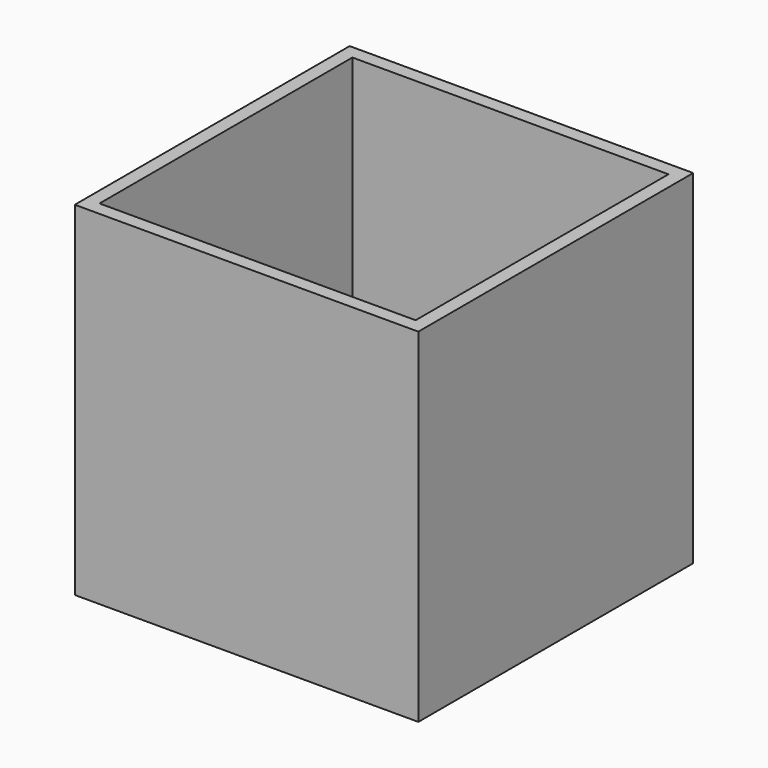
from build123d import *

# Parameters (mm, degrees)
F0_W     = 45.8
F0_H     = 45.8
F0_R     = 5.5
F0_R_2   = 3
F1_DEPTH = 2
F2_SIZE  = 5
F3_DEPTH = 50


with BuildPart() as f1:
    # F0 (on Top) → F1 (new body)
    with BuildSketch(Plane.XY):
        Rectangle(F0_W, F0_H)
        with Locations((-7, -11.5)):
            Circle(F0_R, mode=Mode.SUBTRACT)
        with Locations((11, -11.5)):
            Circle(F0_R_2, mode=Mode.SUBTRACT)
        with Locations((-7, 11.5)):
            Circle(F0_R, mode=Mode.SUBTRACT)
        with Locations((11, 11.5)):
            Circle(F0_R_2, mode=Mode.SUBTRACT)
    extrude(amount=F1_DEPTH)

    # F2
    f2_edges = [f1.edges().sort_by_distance(p)[0] for p in [
        (22.9, 22.9, 1),
        (22.9, -22.9, 1),
        (-22.9, -22.9, 1),
        (-22.9, 22.9, 1),
    ]]
    chamfer(f2_edges, length=F2_SIZE)


with BuildPart() as f3:
    # F0 (on Top) → F3 (new body)
    with BuildSketch(Plane.XY):
        Polygon((25, 25), (-25, 25), (-25, -25), (25, -25), (25, 0), align=None)
        Polygon((23, 23), (23, 0), (23, -23), (-23, -23), (-23, 23), align=None, mode=Mode.SUBTRACT)
    extrude(amount=F3_DEPTH)


with BuildPart() as f3_1:
    # F4: moved
    add(f3.part.moved(Location((0, 0, -5))))


solid = Compound([f1.part, f3_1.part])
